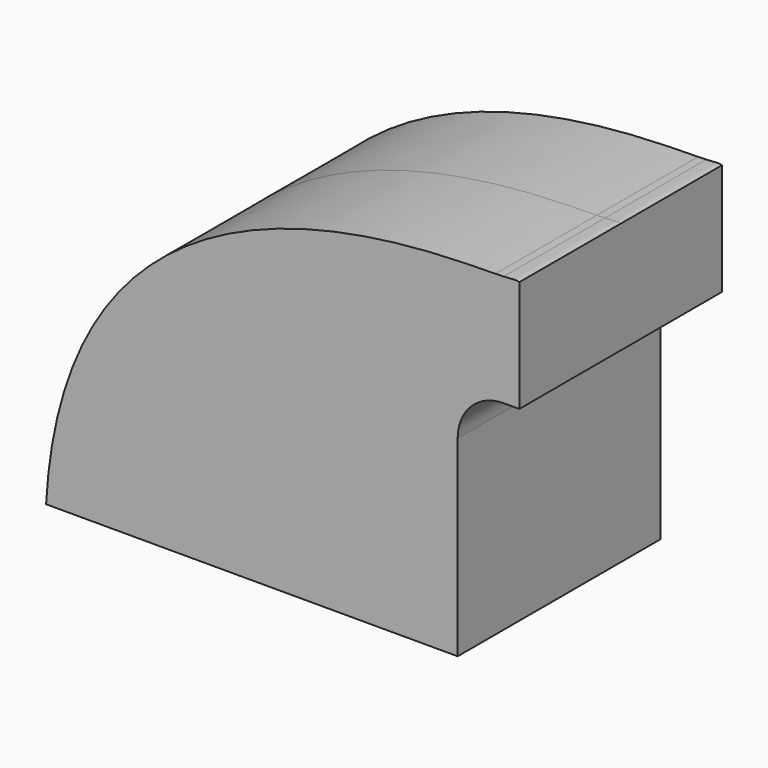
from build123d import *

# Parameters (mm, degrees)
F1_DEPTH = 25.4


with BuildPart() as f1:
    # F0 (on Front) → F1 (new body, symmetric)
    with BuildSketch(Plane.XZ):
        with BuildLine():
            Line((-41.275, 9.525), (18.9229995012, 9.525))
            Line((18.9229995012, 9.525), (18.9229995012, 48.0189798517))
            ThreePointArc((18.9229995012, 48.0189798517), (27.5958880394, 69.7458014014), (48.8464394104, 79.5278173835))
            add(Edge.make_bspline(
                [(-41.275, 9.525), (-37.3546025083, 80.3186400557), (32.5938258146, 79.2506709796), (48.8464394104, 79.5278173835)],
                knots=[0, 0, 0, 0, 0.8264340186, 0.8264340186, 0.8264340186, 0.8264340186], degree=3))
        make_face()
        with BuildLine():
            Line((18.9229995012, 9.525), (41.275, 9.525))
            Line((41.275, 9.525), (41.275, 48.0189798517))
            ThreePointArc((41.275, 48.0189798517), (43.9692765801, 54.5235389122), (50.4738356406, 57.2178154923))
            Line((50.4738356406, 57.2178154923), (53.6273793955, 57.2178154923))
            Line((53.6273793955, 57.2178154923), (53.6273793955, 79.5951649401))
            add(Edge.make_bspline(
                [(50.4738356406, 79.5698159911), (52.5255819675, 79.6536185215), (52.860162183, 79.8598219744), (53.6273793955, 79.5951649401)],
                knots=[0.8581554272, 0.8581554272, 0.8581554272, 0.8581554272, 1, 1, 1, 1], degree=3))
            add(Edge.make_bspline(
                [(48.8464394104, 79.5278173835), (49.4702711805, 79.5384552253), (50.0149933862, 79.5510748137), (50.4738356406, 79.5698159911)],
                knots=[0.8264340186, 0.8264340186, 0.8264340186, 0.8264340186, 0.8581554272, 0.8581554272, 0.8581554272, 0.8581554272], degree=3))
            ThreePointArc((48.8464394104, 79.5278173835), (27.5958880394, 69.7458014014), (18.9229995012, 48.0189798517))
            Line((18.9229995012, 48.0189798517), (18.9229995012, 9.525))
        make_face()
    extrude(amount=F1_DEPTH, both=True)


solid = f1.part
